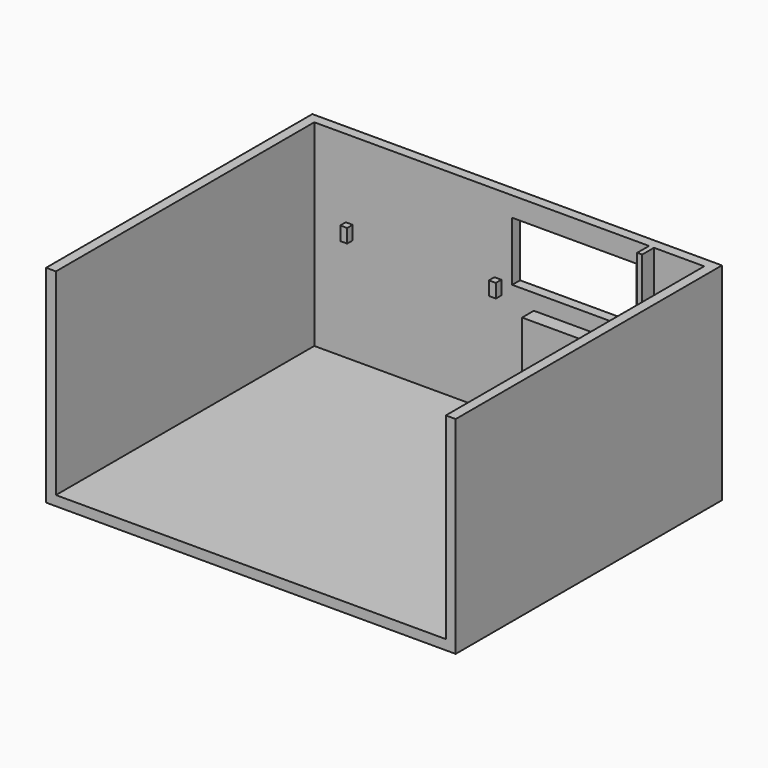
from build123d import *

# Parameters (mm, degrees)
F0_W     = 4160
F0_H     = 3380
F1_DEPTH = 100
F3_DEPTH = 2000
F4_W     = 1260
F4_H     = 600
F5_DEPTH = 100.001
F7_DEPTH = 150
F8_W     = 70
F8_H     = 140
F9_DEPTH = 70


with BuildPart() as f1:
    # F0 (on Top) → F1 (new body)
    with BuildSketch(Plane.XY):
        with Locations((1080, -690)):
            Rectangle(F0_W, F0_H)
    extrude(amount=F1_DEPTH)

    # F2 (on face) → F3 (join)
    with BuildSketch(Plane.XY.offset(100)):
        Polygon((3160, 1000), (-1000, 1000), (-1000, -2380), (-900, -2380), (-900, 900), (3060, 900), (3060, -2380), (3160, -2380), align=None)
    extrude(amount=F3_DEPTH)

    # F4 (on face) → F5 (cut, through all)
    with BuildSketch(Plane.XZ.offset(-900)):
        with Locations((1740, 1600)):
            Rectangle(F4_W, F4_H)
    extrude(amount=-F5_DEPTH, mode=Mode.SUBTRACT)

    # F6 (on face) → F7 (join)
    with BuildSketch(Plane.XZ.offset(-900)):
        Polygon((2150, 1140), (1330, 1140), (1330, 350), (2150, 350), (2150, 400), (2150, 450), (2150, 1000), (2150, 1050), align=None)
        Polygon((2500, 1050), (2150, 1050), (2150, 1000), (2500, 1000), (2550, 1000), (2550, 2100), (2500, 2100), align=None)
        Polygon((2150, 450), (2150, 400), (2550, 400), (2550, 1000), (2500, 1000), (2500, 450), align=None)
    extrude(amount=F7_DEPTH)

    # F8 (on face) → F9 (join)
    with BuildSketch(Plane.XZ.offset(-900)):
        with Locations((-545, 1240)):
            Rectangle(F8_W, F8_H)
        with Locations((965, 1240)):
            Rectangle(F8_W, F8_H)
        with Locations((2805, 1240)):
            Rectangle(F8_W, F8_H)
    extrude(amount=F9_DEPTH)


solid = f1.part
